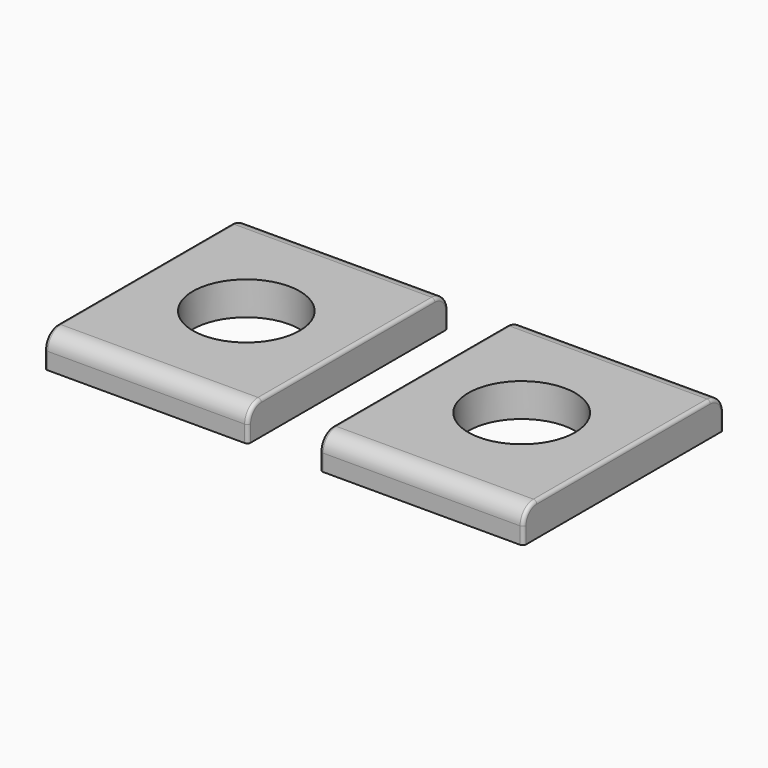
from build123d import *

# Parameters (mm, degrees)
SKETCH010_W  = 6.1
SKETCH010_H  = 7.5
SKETCH010_R  = 1.6
PAD002_DEPTH = 1
FILLET_R     = 0.5
FILLET001_R  = 0.1


with BuildPart() as part:
    # Sketch010 → Pad002 (new body)
    with BuildSketch(Plane(origin=(0, 0, 7.5), x_dir=(1, 0, 0), z_dir=(0, 0, -1))):
        with Locations((-4.125, 0)):
            Rectangle(SKETCH010_W, SKETCH010_H)
        with Locations((-4.125, 0)):
            Circle(SKETCH010_R, mode=Mode.SUBTRACT)
        with Locations((4.125, 0)):
            Rectangle(SKETCH010_W, SKETCH010_H)
        with Locations((4.125, 0)):
            Circle(SKETCH010_R, mode=Mode.SUBTRACT)
    extrude(amount=-PAD002_DEPTH)

    # Fillet
    fillet_edges = [part.edges().sort_by_distance(p)[0] for p in [
        (-4.125, -3.75, 8.5),
        (-4.125, 3.75, 8.5),
        (4.125, -3.75, 8.5),
        (4.125, 3.75, 8.5),
    ]]
    fillet(fillet_edges, radius=FILLET_R)

    # Fillet001
    fillet001_edges = [part.edges().sort_by_distance(p)[0] for p in [
        (-7.175, 0, 8.5),
        (-1.075, 0, 8.5),
        (1.075, 0, 8.5),
        (7.175, 0, 8.5),
    ]]
    fillet(fillet001_edges, radius=FILLET001_R)


solid = part.part
